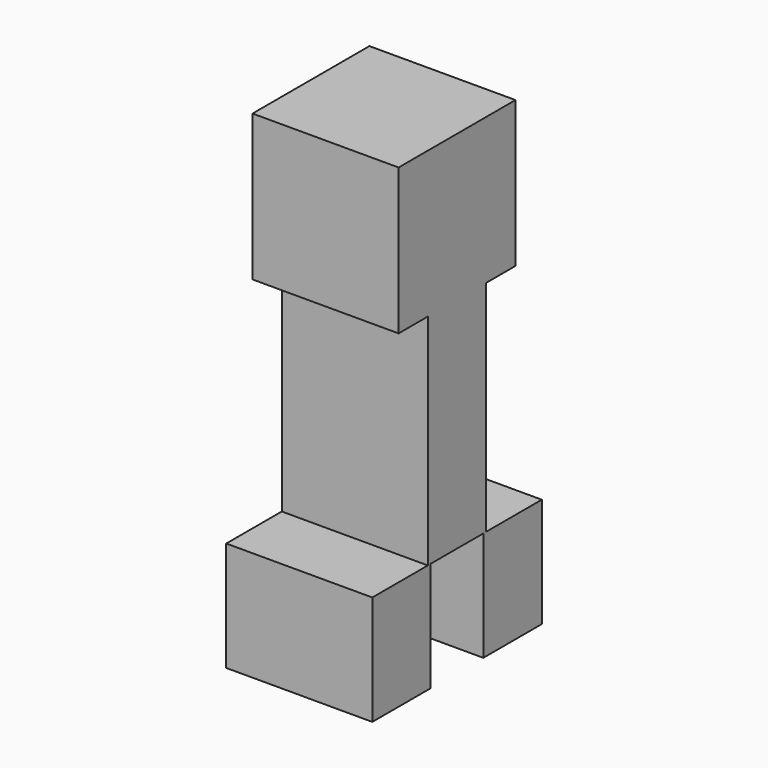
from build123d import *

# Parameters (mm, degrees)
F0_W     = 80
F0_H     = 80
F1_DEPTH = 80
F2_W     = 80
F2_H     = 40
F3_DEPTH = 120
F4_W     = 80
F4_H     = 40
F5_DEPTH = 60


with BuildPart() as f1:
    # F0 (on Top) → F1 (new body)
    with BuildSketch(Plane.XY):
        with Locations((-17.931859, 10.016291)):
            Rectangle(F0_W, F0_H)
    extrude(amount=F1_DEPTH)

    # F2 (on face) → F3 (join)
    with BuildSketch(Plane(origin=(0, 0, 0), x_dir=(1, 0, 0), z_dir=(0, 0, -1))):
        with Locations((-17.931859, -10.016291)):
            Rectangle(F2_W, F2_H)
    extrude(amount=F3_DEPTH)

    # F4 (on face) → F5 (join)
    with BuildSketch(Plane(origin=(0, 0, -120), x_dir=(1, 0, 0), z_dir=(0, 0, -1))):
        with Locations((-17.931859, 27.983709)):
            Rectangle(F4_W, F4_H)
        with Locations((-17.931859, -48.016291)):
            Rectangle(F4_W, F4_H)
    extrude(amount=F5_DEPTH)


solid = f1.part
